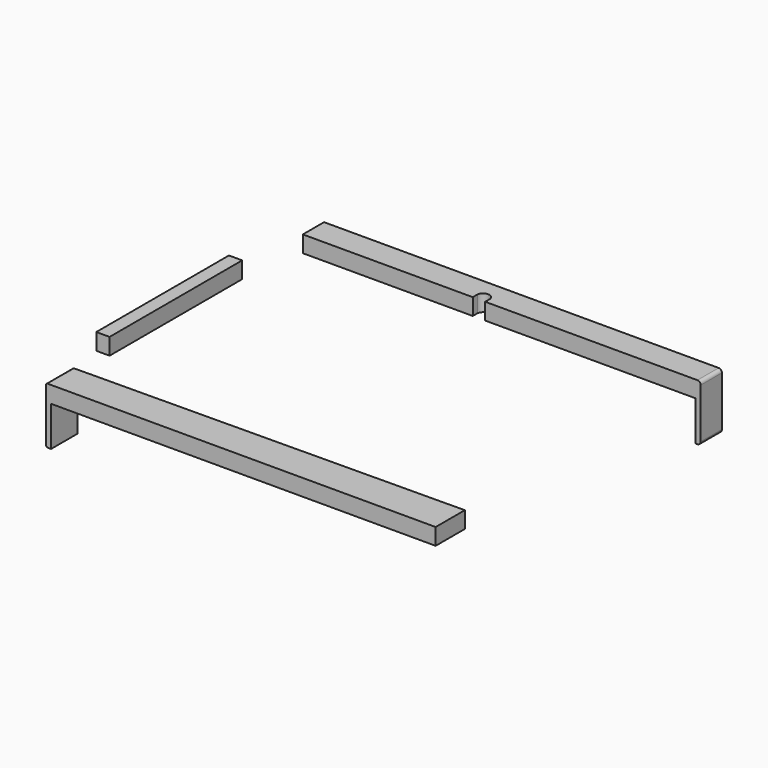
from build123d import *

# Parameters (mm, degrees)
PAD_DEPTH    = 10
SKETCH001_W  = 3
SKETCH001_H  = 16
PAD001_DEPTH = 24
FILLET_R     = 2
SKETCH002_W  = 8
SKETCH002_H  = 100
PAD002_DEPTH = 10
PAD003_DEPTH = 10
PAD004_DEPTH = 24
FILLET001_R  = 1


with BuildPart() as body:
    # Sketch → Pad (new body)
    with BuildSketch(Plane.XY):
        with BuildLine():
            Line((-120, 8), (120, 8))
            Line((120, 8), (120, -8))
            Line((120, -8), (-10, -8))
            Line((-10, -4.3), (-10, -8))
            ThreePointArc((-10, -4.3), (-13.75, -1.11441), (-17.5, -4.3))
            Line((-17.5, -4.3), (-17.5, -8))
            Line((-120, -8), (-17.5, -8))
            Line((-120, -8), (-120, 8))
        make_face()
    extrude(amount=PAD_DEPTH)

    # Sketch001 (on Face9 of Pad) → Pad001 (join)
    with BuildSketch(Plane(origin=(0, 0, 0), x_dir=(1, 0, 0), z_dir=(0, 0, -1))):
        with Locations((118.5, 0)):
            Rectangle(SKETCH001_W, SKETCH001_H)
    extrude(amount=PAD001_DEPTH)

    # Fillet
    fillet_edges = [body.edges().sort_by_distance(p)[0] for p in [
        (120, 0, 10),
        (120, 0, -24),
    ]]
    fillet(fillet_edges, radius=FILLET_R)


with BuildPart() as body001:
    # Sketch002 → Pad002 (new body)
    with BuildSketch(Plane.XY):
        with Locations((-129.773869, -96.520366)):
            Rectangle(SKETCH002_W, SKETCH002_H)
    extrude(amount=PAD002_DEPTH)


with BuildPart() as body002:
    # Sketch003 → Pad003 (new body)
    with BuildSketch(Plane.XY):
        Polygon((-119.68, -182.01), (115.32, -180.01), (115.32, -202.01), (-119.68, -202.01), align=None)
    extrude(amount=PAD003_DEPTH)

    # Sketch004 (on Face5 of Pad003) → Pad004 (join)
    with BuildSketch(Plane(origin=(0, 0, 0), x_dir=(1, 0, 0), z_dir=(0, 0, -1))):
        Polygon((-119.68, 202.01), (-116.68, 202.01), (-116.68, 181.984468), (-119.68, 182.01), align=None)
    extrude(amount=PAD004_DEPTH)

    # Fillet001
    fillet001_edges = [body002.edges().sort_by_distance(p)[0] for p in [
        (-119.68, -192.01, 10),
        (-119.68, -192.01, -24),
    ]]
    fillet(fillet001_edges, radius=FILLET001_R)


solid = Compound([body.part, body001.part, body002.part])
